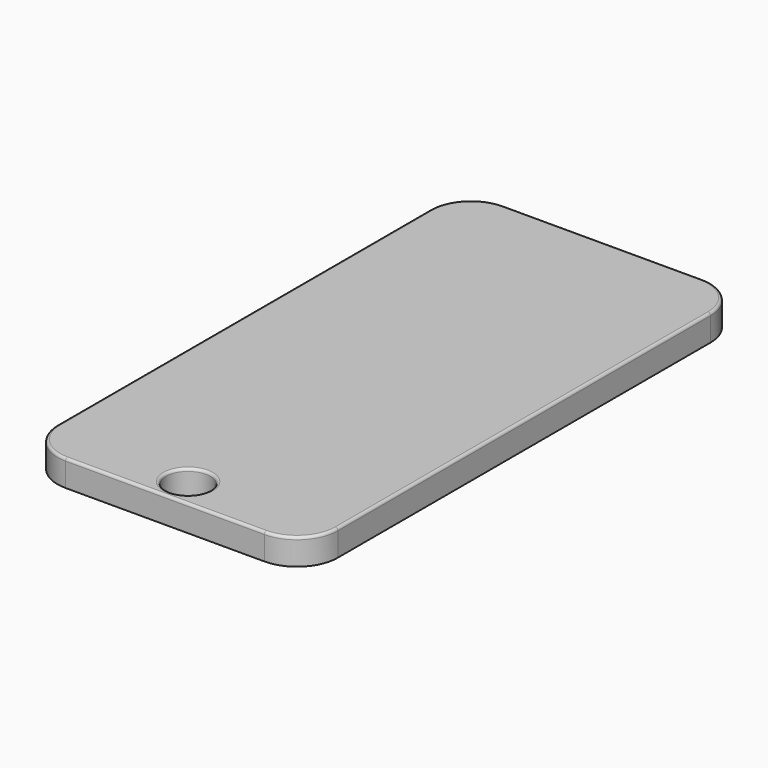
from build123d import *

# Parameters (mm, degrees)
F0_R     = 4.220901
F1_DEPTH = 5
F2_R     = 0.5


with BuildPart() as f1:
    # F0 (on Top) → F1 (new body)
    with BuildSketch(Plane.XY):
        with BuildLine():
            ThreePointArc((26.67, 44.302669), (24.395001, 49.795001), (18.902669, 52.07))
            Line((18.902669, 52.07), (-18.902669, 52.07))
            ThreePointArc((-18.902669, 52.07), (-24.395001, 49.795001), (-26.67, 44.302669))
            Line((-26.67, 44.302669), (-26.67, -44.302669))
            ThreePointArc((-26.67, -44.302669), (-24.395001, -49.795001), (-18.902669, -52.07))
            Line((-18.902669, -52.07), (18.902669, -52.07))
            ThreePointArc((18.902669, -52.07), (24.395001, -49.795001), (26.67, -44.302669))
            Line((26.67, -44.302669), (26.67, 44.302669))
        make_face()
        with Locations((0, -46.580885)):
            Circle(F0_R, mode=Mode.SUBTRACT)
    extrude(amount=F1_DEPTH)

    # F2
    f2_edges = [f1.edges().sort_by_distance(p)[0] for p in [
        (26.67, 0, 5),
        (24.395001, 49.795001, 5),
        (0, 52.07, 5),
        (-24.395001, 49.795001, 5),
        (-26.67, 0, 5),
        (-24.395001, -49.795001, 5),
        (0, -52.07, 5),
        (24.395001, -49.795001, 5),
        (-4.220901, -46.580885, 5),
    ]]
    fillet(f2_edges, radius=F2_R)


solid = f1.part
